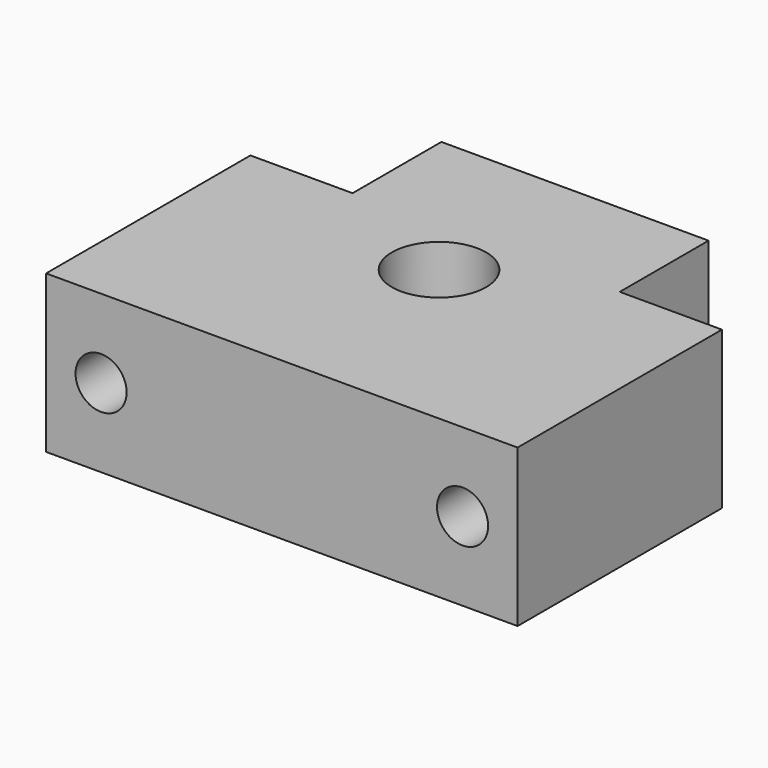
from build123d import *

# Parameters (mm, degrees)
SKETCH_R     = 6
PAD_DEPTH    = 20
SKETCH001_R  = 3.25
POCKET_DEPTH = 32.501


with BuildPart() as part:
    # Sketch → Pad (new body)
    with BuildSketch(Plane.XY):
        Polygon((-17, 21.625642), (17, 21.625642), (17, 7.5), (30, 7.5), (30, -25), (-30, -25), (-30, 7.5), (-17, 7.5), align=None)
        Circle(SKETCH_R, mode=Mode.SUBTRACT)
    extrude(amount=PAD_DEPTH)

    # Sketch001 (on Face7 of Pad) → Pocket (cut, through all)
    with BuildSketch(Plane(origin=(0, 7.5, 0), x_dir=(-1, 0, 0), z_dir=(0, 1, 0))):
        with Locations((-23, 10)):
            Circle(SKETCH001_R)
        with Locations((23, 10)):
            Circle(SKETCH001_R)
    extrude(amount=-POCKET_DEPTH, mode=Mode.SUBTRACT)


solid = part.part
